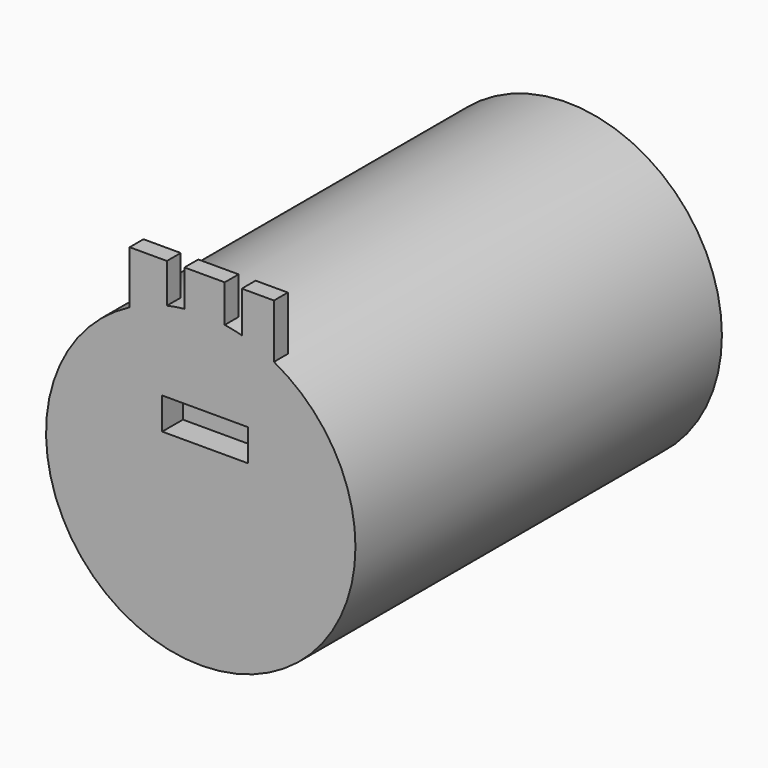
from build123d import *

# Parameters (mm, degrees)
F0_R     = 17.9
F1_DEPTH = 53
F2_R     = 5
F3_DEPTH = 1
F4_R     = 1.575
F5_DEPTH = 10
F6_W     = 9.9145695567
F6_H     = 3.6825537682
F7_DEPTH = 3
F9_DEPTH = 2


with BuildPart() as f1:
    # F0 (on Front) → F1 (new body)
    with BuildSketch(Plane.XZ):
        with Locations((-27.1942447871, 20.9622308612)):
            Circle(F0_R)
    extrude(amount=F1_DEPTH)

    # F2 (on face) → F3 (join)
    with BuildSketch(Plane(origin=(0, 0, 0), x_dir=(-1, 0, 0), z_dir=(0, 1, 0))):
        with Locations((27.1942447871, 20.9622308612)):
            Circle(F2_R)
    extrude(amount=F3_DEPTH)

    # F4 (on face) → F5 (join)
    with BuildSketch(Plane(origin=(0, 1, 0), x_dir=(-1, 0, 0), z_dir=(0, 1, 0))):
        with Locations((27.1942447871, 20.9622308612)):
            Circle(F4_R)
    extrude(amount=F5_DEPTH)

    # F6 (on face) → F7 (cut)
    with BuildSketch(Plane.XZ.offset(53)):
        with Locations((-26.6985148191, 27.265066281)):
            Rectangle(F6_W, F6_H)
    extrude(amount=-F7_DEPTH, mode=Mode.SUBTRACT)

    # F8 (on face) → F9 (join)
    with BuildSketch(Plane.XZ.offset(53)):
        with BuildLine():
            Line((-35.4207989488, 42.9829595067), (-35.4207989488, 36.8598346626))
            ThreePointArc((-35.4207989488, 36.8598346626), (-33.3154303096, 37.7830836279), (-31.1090964824, 38.428882979))
            Line((-31.1090964824, 38.428882979), (-31.1090964824, 42.9829595067))
            Line((-31.1090964824, 42.9829595067), (-35.4207989488, 42.9829595067))
        make_face()
        with BuildLine():
            Line((-29.0810409933, 42.9829595067), (-29.0810409933, 38.76251176))
            ThreePointArc((-29.0810409933, 38.76251176), (-26.7457383718, 38.8566110403), (-24.4180820882, 38.6456389227))
            Line((-24.4180820882, 38.6456389227), (-24.4180820882, 42.9829595067))
            Line((-24.4180820882, 42.9829595067), (-29.0810409933, 42.9829595067))
        make_face()
        with BuildLine():
            ThreePointArc((-22.4494244903, 38.2219145301), (-20.5451738039, 37.5814924291), (-18.7246836722, 36.7317119725))
            Line((-18.7246836722, 36.7317119725), (-18.7246836722, 42.9829595067))
            Line((-18.7246836722, 42.9829595067), (-22.4494244903, 42.9829595067))
            Line((-22.4494244903, 42.9829595067), (-22.4494244903, 38.2219145301))
        make_face()
    extrude(amount=-F9_DEPTH)


solid = f1.part
